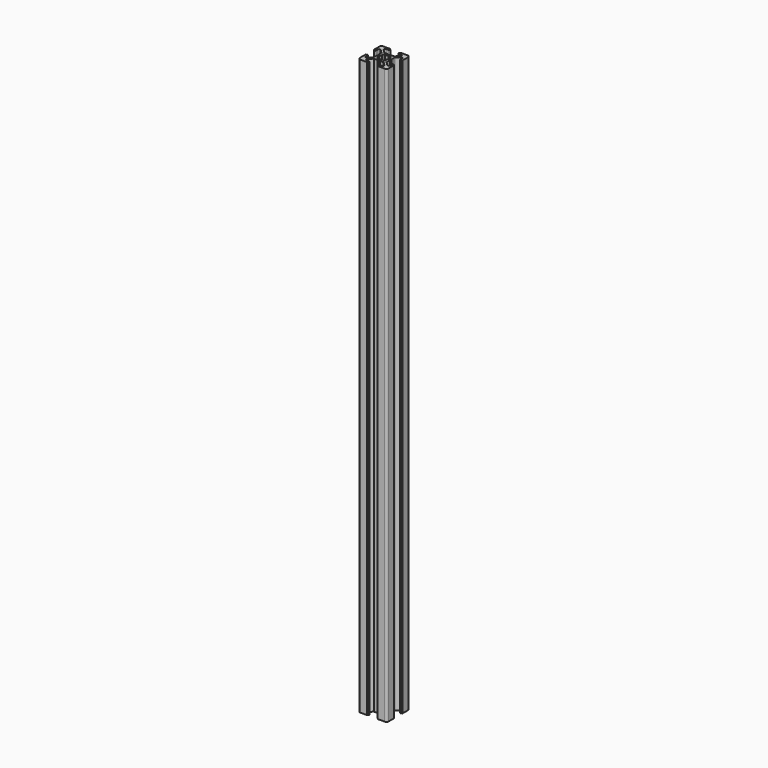
from build123d import *

# Parameters (mm, degrees)
F1_DEPTH = 400


with BuildPart() as f1:
    # F0 (on Top) → F1 (new body)
    with BuildSketch(Plane.XY):
        with BuildLine():
            ThreePointArc((-0.85359, 4.473205), (-0.901827, 4.493185), (-0.95359, 4.5))
            Line((-0.95359, 4.5), (-3.232234, 4.5))
            ThreePointArc((-3.232234, 4.5), (-3.423576, 4.53806), (-3.585787, 4.646447))
            Line((-3.585787, 4.646447), (-5.853554, 6.914213))
            ThreePointArc((-5.853554, 6.914213), (-5.96194, 7.076425), (-6.000001, 7.267767))
            Line((-6.000001, 7.267767), (-6.000001, 8))
            ThreePointArc((-6.000001, 8), (-5.853554, 8.353553), (-5.500001, 8.5))
            Line((-5.500001, 8.5), (-3.6, 8.5))
            ThreePointArc((-3.6, 8.5), (-3.246447, 8.646446), (-3.1, 9))
            Line((-3.1, 9), (-3.1, 9.3))
            ThreePointArc((-3.1, 9.3), (-3.158579, 9.441421), (-3.3, 9.5))
            Line((-3.3, 9.5), (-3.65, 9.5))
            Line((-3.65, 9.5), (-3.65, 9.8))
            ThreePointArc((-3.65, 9.8), (-3.708579, 9.941421), (-3.85, 10))
            Line((-3.85, 10), (-8.5, 10))
            ThreePointArc((-8.5, 10), (-9.56066, 9.56066), (-10, 8.5))
            Line((-10, 8.5), (-10, 3.85))
            ThreePointArc((-10, 3.85), (-9.941421, 3.708578), (-9.8, 3.65))
            Line((-9.8, 3.65), (-9.5, 3.65))
            Line((-9.5, 3.65), (-9.5, 3.3))
            ThreePointArc((-9.5, 3.3), (-9.441421, 3.158579), (-9.3, 3.1))
            Line((-9.3, 3.1), (-9, 3.1))
            ThreePointArc((-9, 3.1), (-8.646446, 3.246447), (-8.5, 3.6))
            Line((-8.5, 3.6), (-8.5, 5.5))
            ThreePointArc((-8.5, 5.5), (-8.353553, 5.853553), (-8, 6))
            Line((-8, 6), (-7.267767, 6))
            ThreePointArc((-7.267767, 6), (-7.076425, 5.961939), (-6.914213, 5.853553))
            Line((-6.914213, 5.853553), (-4.646446, 3.585786))
            ThreePointArc((-4.646446, 3.585786), (-4.53806, 3.423574), (-4.5, 3.232233))
            Line((-4.5, 3.232233), (-4.5, 0.953589))
            ThreePointArc((-4.5, 0.953589), (-4.493185, 0.901825), (-4.473205, 0.853589))
            Line((-4.473205, 0.853589), (-4.03812, 0.1))
            ThreePointArc((-4.03812, 0.1), (-4.011325, 0), (-4.03812, -0.1))
            Line((-4.03812, -0.1), (-4.473205, -0.853589))
            ThreePointArc((-4.473205, -0.853589), (-4.493185, -0.901825), (-4.5, -0.953589))
            Line((-4.5, -0.953589), (-4.5, -3.232233))
            ThreePointArc((-4.5, -3.232233), (-4.53806, -3.423574), (-4.646446, -3.585786))
            Line((-4.646446, -3.585786), (-6.914213, -5.853553))
            ThreePointArc((-6.914213, -5.853553), (-7.076425, -5.961939), (-7.267767, -6))
            Line((-7.267767, -6), (-8, -6))
            ThreePointArc((-8, -6), (-8.353553, -5.853553), (-8.5, -5.5))
            Line((-8.5, -5.5), (-8.5, -3.6))
            ThreePointArc((-8.5, -3.6), (-8.646446, -3.246447), (-9, -3.1))
            Line((-9, -3.1), (-9.3, -3.1))
            ThreePointArc((-9.3, -3.1), (-9.441421, -3.158579), (-9.5, -3.3))
            Line((-9.5, -3.3), (-9.5, -3.65))
            Line((-9.5, -3.65), (-9.8, -3.65))
            ThreePointArc((-9.8, -3.65), (-9.941421, -3.708578), (-10, -3.85))
            Line((-10, -3.85), (-10, -8.5))
            ThreePointArc((-10, -8.5), (-9.56066, -9.56066), (-8.5, -10))
            Line((-8.5, -10), (-3.85, -10))
            ThreePointArc((-3.85, -10), (-3.708579, -9.941421), (-3.65, -9.8))
            Line((-3.65, -9.8), (-3.65, -9.5))
            Line((-3.65, -9.5), (-3.3, -9.5))
            ThreePointArc((-3.3, -9.5), (-3.158579, -9.441421), (-3.1, -9.3))
            Line((-3.1, -9.3), (-3.1, -9))
            ThreePointArc((-3.1, -9), (-3.246447, -8.646446), (-3.6, -8.5))
            Line((-3.6, -8.5), (-5.500001, -8.5))
            ThreePointArc((-5.500001, -8.5), (-5.853554, -8.353553), (-6.000001, -8))
            Line((-6.000001, -8), (-6.000001, -7.267767))
            ThreePointArc((-6.000001, -7.267767), (-5.96194, -7.076425), (-5.853554, -6.914213))
            Line((-5.853554, -6.914213), (-3.585787, -4.646447))
            ThreePointArc((-3.585787, -4.646447), (-3.423576, -4.53806), (-3.232234, -4.5))
            Line((-3.232234, -4.5), (-0.95359, -4.5))
            ThreePointArc((-0.95359, -4.5), (-0.901827, -4.493185), (-0.85359, -4.473205))
            Line((-0.85359, -4.473205), (-0.1, -4.03812))
            ThreePointArc((-0.1, -4.03812), (0, -4.011325), (0.1, -4.03812))
            Line((0.1, -4.03812), (0.85359, -4.473205))
            ThreePointArc((0.85359, -4.473205), (0.901827, -4.493185), (0.95359, -4.5))
            Line((0.95359, -4.5), (3.232234, -4.5))
            ThreePointArc((3.232234, -4.5), (3.423576, -4.53806), (3.585787, -4.646447))
            Line((3.585787, -4.646447), (5.853554, -6.914213))
            ThreePointArc((5.853554, -6.914213), (5.96194, -7.076425), (6.000001, -7.267767))
            Line((6.000001, -7.267767), (6.000001, -8))
            ThreePointArc((6.000001, -8), (5.853554, -8.353553), (5.500001, -8.5))
            Line((5.500001, -8.5), (3.6, -8.5))
            ThreePointArc((3.6, -8.5), (3.246447, -8.646446), (3.1, -9))
            Line((3.1, -9), (3.1, -9.3))
            ThreePointArc((3.1, -9.3), (3.158579, -9.441421), (3.3, -9.5))
            Line((3.3, -9.5), (3.65, -9.5))
            Line((3.65, -9.5), (3.65, -9.8))
            ThreePointArc((3.65, -9.8), (3.708579, -9.941421), (3.85, -10))
            Line((3.85, -10), (8.5, -10))
            ThreePointArc((8.5, -10), (9.56066, -9.56066), (10, -8.5))
            Line((10, -8.5), (10, -3.85))
            ThreePointArc((10, -3.85), (9.941421, -3.708578), (9.8, -3.65))
            Line((9.8, -3.65), (9.5, -3.65))
            Line((9.5, -3.65), (9.5, -3.3))
            ThreePointArc((9.5, -3.3), (9.441421, -3.158579), (9.3, -3.1))
            Line((9.3, -3.1), (9, -3.1))
            ThreePointArc((9, -3.1), (8.646446, -3.246447), (8.5, -3.6))
            Line((8.5, -3.6), (8.5, -5.5))
            ThreePointArc((8.5, -5.5), (8.353553, -5.853553), (8, -6))
            Line((8, -6), (7.267767, -6))
            ThreePointArc((7.267767, -6), (7.076425, -5.961939), (6.914213, -5.853553))
            Line((6.914213, -5.853553), (4.646446, -3.585786))
            ThreePointArc((4.646446, -3.585786), (4.53806, -3.423574), (4.5, -3.232233))
            Line((4.5, -3.232233), (4.5, -0.953589))
            ThreePointArc((4.5, -0.953589), (4.493185, -0.901825), (4.473205, -0.853589))
            Line((4.473205, -0.853589), (4.03812, -0.1))
            ThreePointArc((4.03812, -0.1), (4.011325, 0), (4.03812, 0.1))
            Line((4.03812, 0.1), (4.473205, 0.853589))
            ThreePointArc((4.473205, 0.853589), (4.493185, 0.901825), (4.5, 0.953589))
            Line((4.5, 0.953589), (4.5, 3.232233))
            ThreePointArc((4.5, 3.232233), (4.53806, 3.423574), (4.646446, 3.585786))
            Line((4.646446, 3.585786), (6.914213, 5.853553))
            ThreePointArc((6.914213, 5.853553), (7.076425, 5.961939), (7.267767, 6))
            Line((7.267767, 6), (8, 6))
            ThreePointArc((8, 6), (8.353553, 5.853553), (8.5, 5.5))
            Line((8.5, 5.5), (8.5, 3.6))
            ThreePointArc((8.5, 3.6), (8.646446, 3.246447), (9, 3.1))
            Line((9, 3.1), (9.3, 3.1))
            ThreePointArc((9.3, 3.1), (9.441421, 3.158579), (9.5, 3.3))
            Line((9.5, 3.3), (9.5, 3.65))
            Line((9.5, 3.65), (9.8, 3.65))
            ThreePointArc((9.8, 3.65), (9.941421, 3.708578), (10, 3.85))
            Line((10, 3.85), (10, 8.5))
            ThreePointArc((10, 8.5), (9.56066, 9.56066), (8.5, 10))
            Line((8.5, 10), (3.85, 10))
            ThreePointArc((3.85, 10), (3.708579, 9.941421), (3.65, 9.8))
            Line((3.65, 9.8), (3.65, 9.5))
            Line((3.65, 9.5), (3.3, 9.5))
            ThreePointArc((3.3, 9.5), (3.158579, 9.441421), (3.1, 9.3))
            Line((3.1, 9.3), (3.1, 9))
            ThreePointArc((3.1, 9), (3.246447, 8.646446), (3.6, 8.5))
            Line((3.6, 8.5), (5.500001, 8.5))
            ThreePointArc((5.500001, 8.5), (5.853554, 8.353553), (6.000001, 8))
            Line((6.000001, 8), (6.000001, 7.267767))
            ThreePointArc((6.000001, 7.267767), (5.96194, 7.076425), (5.853554, 6.914213))
            Line((5.853554, 6.914213), (3.585787, 4.646447))
            ThreePointArc((3.585787, 4.646447), (3.423576, 4.53806), (3.232234, 4.5))
            Line((3.232234, 4.5), (0.95359, 4.5))
            ThreePointArc((0.95359, 4.5), (0.901827, 4.493185), (0.85359, 4.473205))
            Line((0.85359, 4.473205), (0.1, 4.03812))
            ThreePointArc((0.1, 4.03812), (0, 4.011325), (-0.1, 4.03812))
            Line((-0.1, 4.03812), (-0.85359, 4.473205))
        make_face()
        with BuildLine():
            ThreePointArc((1.913895, 2.989641), (2.511737, 2.50841), (2.992175, 1.909931))
            Line((2.992175, 1.909931), (2.445295, 1.258185))
            ThreePointArc((2.445295, 1.258185), (2.75, 0), (2.445295, -1.258185))
            Line((2.445295, -1.258185), (2.992175, -1.909931))
            ThreePointArc((2.992175, -1.909931), (2.511737, -2.50841), (1.913895, -2.989641))
            Line((1.913895, -2.989641), (1.258185, -2.445295))
            ThreePointArc((1.258185, -2.445295), (0, -2.75), (-1.258185, -2.445295))
            Line((-1.258185, -2.445295), (-1.913895, -2.989641))
            ThreePointArc((-1.913895, -2.989641), (-2.511737, -2.50841), (-2.992175, -1.909931))
            Line((-2.992175, -1.909931), (-2.445295, -1.258185))
            ThreePointArc((-2.445295, -1.258185), (-2.75, 0), (-2.445295, 1.258185))
            Line((-2.445295, 1.258185), (-2.992175, 1.909931))
            ThreePointArc((-2.992175, 1.909931), (-2.511737, 2.50841), (-1.913895, 2.989641))
            Line((-1.913895, 2.989641), (-1.258185, 2.445295))
            ThreePointArc((-1.258185, 2.445295), (0, 2.75), (1.258185, 2.445295))
            Line((1.258185, 2.445295), (1.913895, 2.989641))
        make_face(mode=Mode.SUBTRACT)
    extrude(amount=F1_DEPTH)


solid = f1.part
